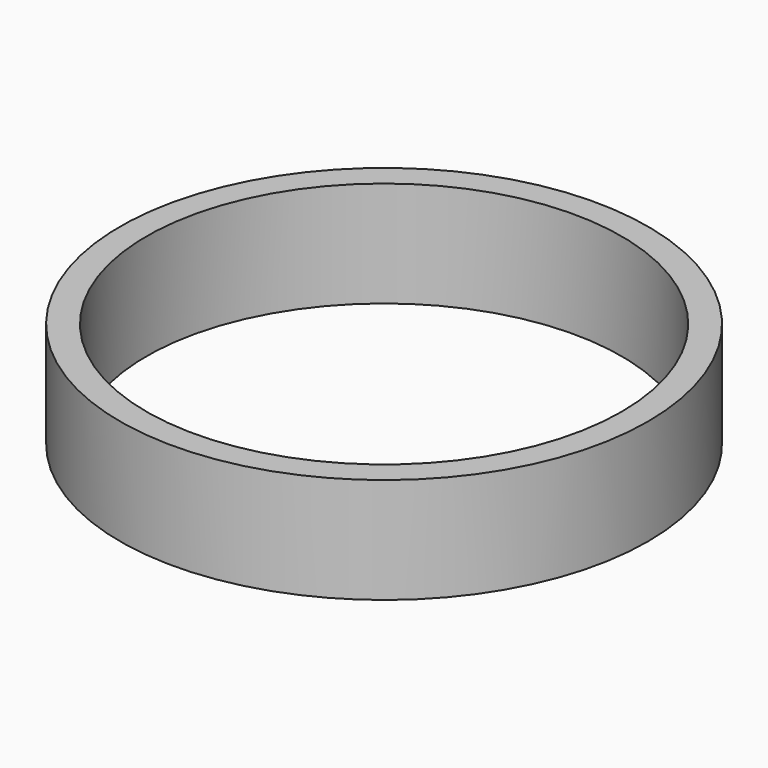
from build123d import *

# Parameters (mm, degrees)
F0_R     = 25
F0_R_2   = 22.5
F1_DEPTH = 10


with BuildPart() as f1:
    # F0 (on Top) → F1 (new body)
    with BuildSketch(Plane.XY):
        Circle(F0_R)
        Circle(F0_R_2, mode=Mode.SUBTRACT)
        Circle(F0_R)
        Circle(F0_R_2, mode=Mode.SUBTRACT)
    extrude(amount=F1_DEPTH)


solid = f1.part
